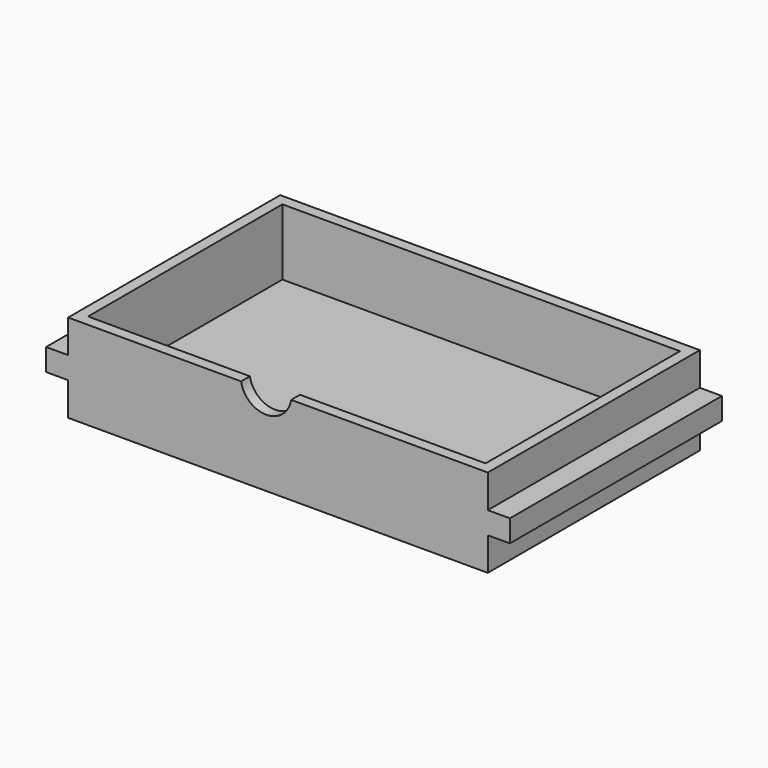
from build123d import *

# Parameters (mm, degrees)
F0_W     = 12.7
F0_H     = 12.7
F1_DEPTH = 152.4
F2_W     = 228.6
F2_H     = 139.7
F3_DEPTH = 38.1
F5_DEPTH = 6.35


with BuildPart() as f1:
    # F0 (on Front) → F1 (new body)
    with BuildSketch(Plane.XZ):
        with Locations((-154.667671, -44.050034)):
            Rectangle(F0_W, F0_H)
        Polygon((92.982329, -18.650034), (-148.317671, -18.650034), (-148.317671, -37.700034), (-148.317671, -50.400034), (-148.317671, -69.450034), (92.982329, -69.450034), (92.982329, -50.400034), (92.982329, -37.700034), align=None)
        with Locations((99.332329, -44.050034)):
            Rectangle(F0_W, F0_H)
    extrude(amount=F1_DEPTH)

    # F2 (on face) → F3 (cut)
    with BuildSketch(Plane.XY.offset(-18.650034)):
        with Locations((-27.667671, -76.2)):
            Rectangle(F2_W, F2_H)
    extrude(amount=-F3_DEPTH, mode=Mode.SUBTRACT)

    # F4 (on face) → F5 (cut)
    with BuildSketch(Plane.XZ.offset(152.4)):
        with BuildLine():
            Line((-20.082708, -18.650034), (-48.866976, -18.650034))
            ThreePointArc((-48.866976, -18.650034), (-34.474842, -30.853539), (-20.082708, -18.650034))
        make_face()
    extrude(amount=-F5_DEPTH, mode=Mode.SUBTRACT)


solid = f1.part
